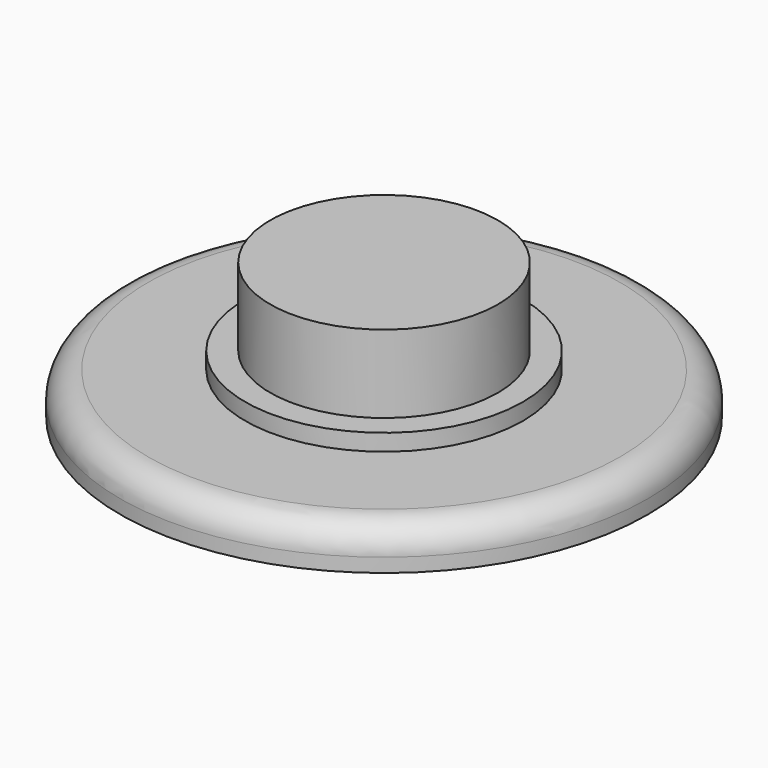
from build123d import *

# Parameters (mm, degrees)
F0_R     = 9.5
F0_R_2   = 5
F0_R_3   = 4.1
F1_DEPTH = 1.5
F2_DEPTH = 3.4
F3_DEPTH = 0.6
F4_R     = 1


with BuildPart() as f1:
    # F0 (on Top) → F1 (new body)
    with BuildSketch(Plane.XY):
        Circle(F0_R)
        Circle(F0_R_2, mode=Mode.SUBTRACT)
        Circle(F0_R_2)
        Circle(F0_R_3, mode=Mode.SUBTRACT)
        Circle(F0_R_3)
    extrude(amount=-F1_DEPTH)

    # F0 (on Top) → F2 (join)
    with BuildSketch(Plane.XY):
        Circle(F0_R_3)
    extrude(amount=F2_DEPTH)

    # F0 (on Top) → F3 (join)
    with BuildSketch(Plane.XY):
        Circle(F0_R_2)
        Circle(F0_R_3, mode=Mode.SUBTRACT)
    extrude(amount=F3_DEPTH)

    # F4
    f4_edges = [f1.edges().sort_by_distance(p)[0] for p in [
        (-9.5, 0, 0),
    ]]
    fillet(f4_edges, radius=F4_R)


solid = f1.part
